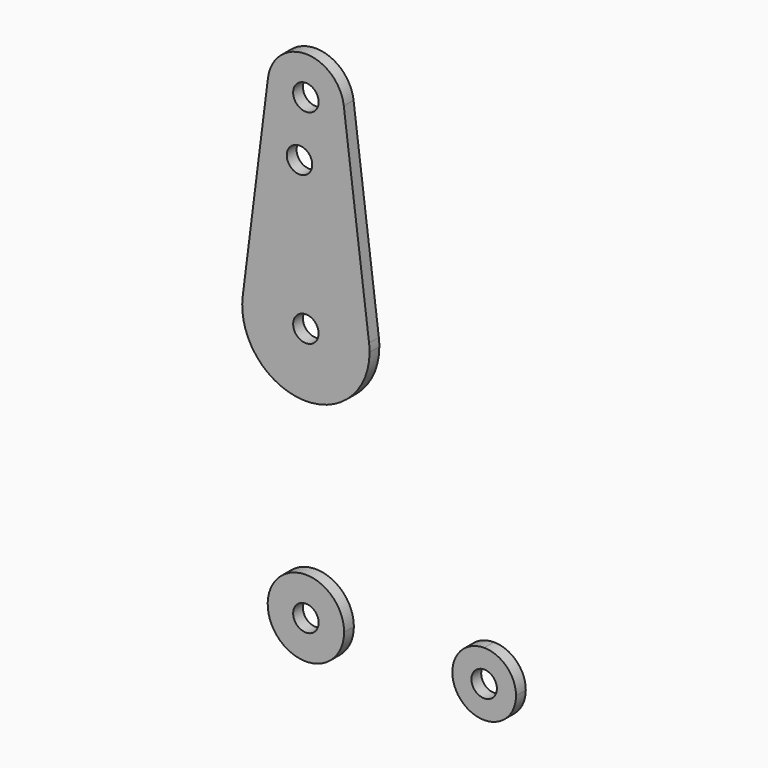
from build123d import *

# Parameters (mm, degrees)
F0_R     = 3.175
F1_DEPTH = 3.048


with BuildPart() as f1:
    # F0 (on Front) → F1 (new body)
    with BuildSketch(Plane.XZ):
        with BuildLine():
            ThreePointArc((0.67949, -9.500732), (6.97129, -6.490511), (9.525, 0))
            ThreePointArc((9.525, 0), (-6.735192, 6.735192), (0, -9.525))
            Line((0, -9.525), (0.67949, -9.500732))
        make_face()
        Circle(F0_R, mode=Mode.SUBTRACT)
        with BuildLine():
            ThreePointArc((-15.100703, 58.602614), (2.479109, 47.819769), (15.875, 63.5))
            ThreePointArc((15.875, 63.5), (15.843841, 64.494139), (15.750488, 65.484375))
            ThreePointArc((15.750488, 65.484375), (0, 79.375), (-15.750488, 65.484375))
            Line((-15.750488, 65.484375), (-15.100703, 58.602614))
        make_face()
        with Locations((0, 63.5)):
            Circle(F0_R, mode=Mode.SUBTRACT)
        with BuildLine():
            ThreePointArc((44.45, 7.9375), (36.5125, 0), (44.45, -7.9375))
            ThreePointArc((44.45, -7.9375), (50.06266, -5.61266), (52.3875, 0))
            ThreePointArc((52.3875, 0), (50.06266, 5.61266), (44.45, 7.9375))
        make_face()
        with Locations((44.45, 0)):
            Circle(F0_R, mode=Mode.SUBTRACT)
        with BuildLine():
            Line((0.67949, -9.500732), (0, -9.525))
            ThreePointArc((0, -9.525), (0.339962, -9.518931), (0.67949, -9.500732))
        make_face()
        with BuildLine():
            ThreePointArc((-15.750488, 65.484375), (0, 79.375), (15.750488, 65.484375))
            Line((15.750488, 65.484375), (9.450293, 115.490625))
            ThreePointArc((9.450293, 115.490625), (9.506305, 114.896483), (9.525, 114.3))
            ThreePointArc((9.525, 114.3), (-0.596483, 104.793695), (-9.450293, 115.490625))
            Line((-9.450293, 115.490625), (-15.750488, 65.484375))
        make_face()
        with Locations((-1.5875, 100.0252)):
            Circle(F0_R, mode=Mode.SUBTRACT)
        with BuildLine():
            ThreePointArc((-15.750488, 65.484375), (-15.804704, 62.007699), (-15.100703, 58.602614))
            Line((-15.100703, 58.602614), (-15.750488, 65.484375))
        make_face()
        with BuildLine():
            ThreePointArc((9.525, 114.3), (9.506305, 114.896483), (9.450293, 115.490625))
            ThreePointArc((9.450293, 115.490625), (0, 123.825), (-9.450293, 115.490625))
            ThreePointArc((-9.450293, 115.490625), (-0.596483, 104.793695), (9.525, 114.3))
        make_face()
        with Locations((0, 114.3)):
            Circle(F0_R, mode=Mode.SUBTRACT)
    extrude(amount=F1_DEPTH)


solid = f1.part
